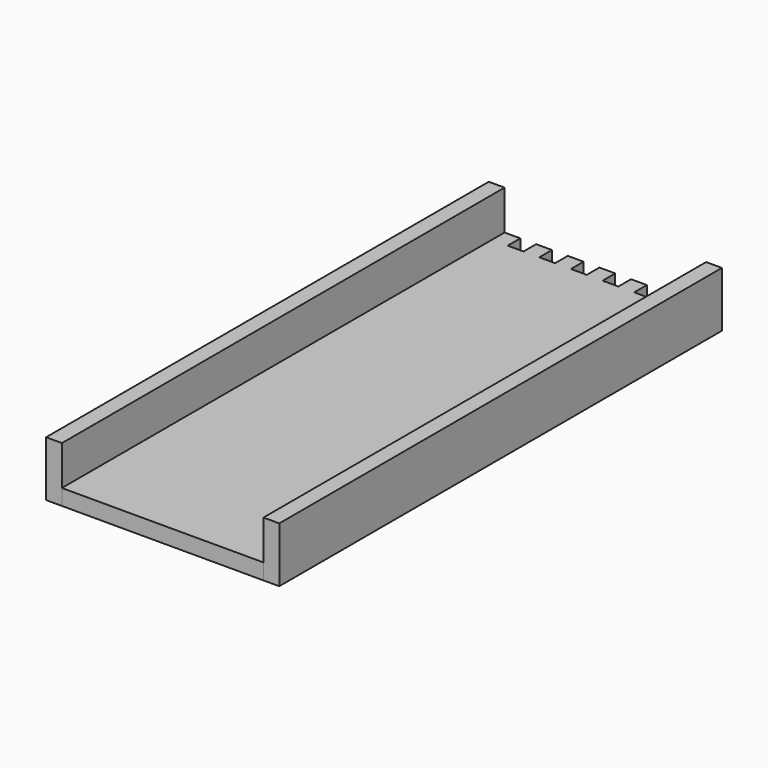
from build123d import *

# Parameters (mm, degrees)
F0_W     = 2
F0_H     = 70
F1_DEPTH = 7
F2_DEPTH = 2


with BuildPart() as f1:
    # F0 (on Top) → F1 (new body)
    with BuildSketch(Plane.XY):
        with Locations((-13.75, 0)):
            Rectangle(F0_W, F0_H)
        with Locations((13.75, 0)):
            Rectangle(F0_W, F0_H)
    extrude(amount=F1_DEPTH)


with BuildPart() as f2:
    # F0 (on Top) → F2 (new body)
    with BuildSketch(Plane.XY):
        Polygon((-12.75, -35), (12.75, -35), (12.75, 35), (11.25, 35), (11.25, 33), (9.25, 33), (9.25, 35), (7.25, 35), (7.25, 33), (5.25, 33), (5.25, 35), (3.25, 35), (3.25, 33), (1.25, 33), (1.25, 35), (-0.75, 35), (-0.75, 33), (-2.75, 33), (-2.75, 35), (-4.75, 35), (-4.75, 33), (-6.75, 33), (-6.75, 35), (-8.75, 35), (-8.75, 33), (-10.75, 33), (-10.75, 35), (-12.75, 35), align=None)
    extrude(amount=F2_DEPTH)


solid = Compound([f1.part, f2.part])
